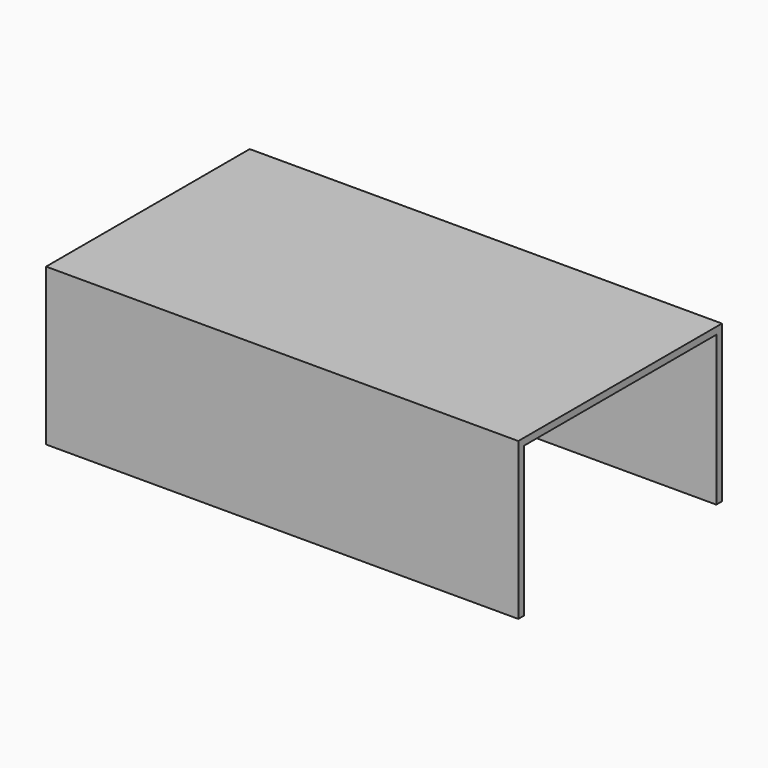
from build123d import *

# Parameters (mm, degrees)
SKETCH011_W  = 95.2
SKETCH011_H  = 12.9
PAD009_DEPTH = 30
FILLET002_R  = 3
PAD008_DEPTH = 161.6


with BuildPart() as tubecutout001:
    # Sketch011 → Pad009 (new body)
    with BuildSketch(Plane(origin=(-10.7, 54, 33), x_dir=(1, 0, 0), z_dir=(0, -1, 0))):
        Rectangle(SKETCH011_W, SKETCH011_H)
    extrude(amount=PAD009_DEPTH)

    # Fillet002
    fillet002_edges = [tubecutout001.edges().sort_by_distance(p)[0] for p in [
        (-58.3, 39, 39.45),
        (-58.3, 39, 26.55),
        (36.9, 39, 39.45),
        (36.9, 39, 26.55),
    ]]
    fillet(fillet002_edges, radius=FILLET002_R)


with BuildPart() as boxcover:
    # Sketch010 → Pad008 (new body)
    with BuildSketch(Plane(origin=(-81, 0, 25.5), x_dir=(0, 1, 0), z_dir=(1, 0, 0))):
        Polygon((-43.55, -25.6), (-43.55, 28), (43.55, 28), (43.55, -25.6), (41.15, -25.6), (41.15, 25.6), (-41.15, 25.6), (-41.15, -25.6), align=None)
    extrude(amount=PAD008_DEPTH)

    # Cut001: cut TubeCutout001
    add(tubecutout001.part, mode=Mode.SUBTRACT)


solid = boxcover.part
